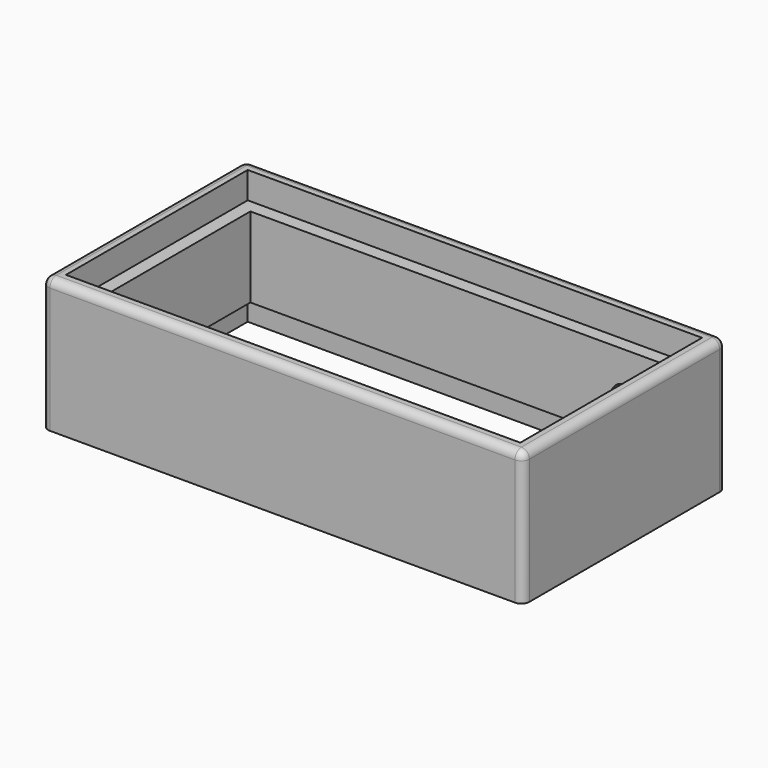
from build123d import *

# Parameters (mm, degrees)
F0_W      = 180
F0_H      = 95
F1_DEPTH  = 50
F2_W      = 160
F2_H      = 75
F3_DEPTH  = 50.001
F4_W      = 170
F4_H      = 85
F5_DEPTH  = 10
F6_W      = 170
F6_H      = 85
F7_DEPTH  = 10
F8_R      = 3
F9_R      = 5
F10_DEPTH = 10


with BuildPart() as f1:
    # F0 (on Top) → F1 (new body)
    with BuildSketch(Plane.XY):
        with Locations((-2.011862, -11.363395)):
            Rectangle(F0_W, F0_H)
    extrude(amount=F1_DEPTH)

    # F2 (on face) → F3 (cut, through all)
    with BuildSketch(Plane.XY.offset(50)):
        with Locations((-2.011862, -11.363395)):
            Rectangle(F2_W, F2_H)
    extrude(amount=-F3_DEPTH, mode=Mode.SUBTRACT)

    # F4 (on face) → F5 (cut)
    with BuildSketch(Plane.XY.offset(50)):
        with Locations((-2.011862, -11.363395)):
            Rectangle(F4_W, F4_H)
    extrude(amount=-F5_DEPTH, mode=Mode.SUBTRACT)

    # F6 (on face) → F7 (cut)
    with BuildSketch(Plane(origin=(0, 0, 0), x_dir=(1, 0, 0), z_dir=(0, 0, -1))):
        with Locations((-2.011862, 11.363395)):
            Rectangle(F6_W, F6_H)
    extrude(amount=-F7_DEPTH, mode=Mode.SUBTRACT)

    # F8
    f8_edges = [f1.edges().sort_by_distance(p)[0] for p in [
        (-92.011862, -58.863395, 25),
        (87.988138, -58.863395, 25),
        (87.988138, -11.363395, 50),
        (-2.011862, -58.863395, 50),
        (-92.011862, -11.363395, 50),
        (-2.011862, 36.136605, 50),
        (-92.011862, 36.136605, 25),
        (87.988138, 36.136605, 25),
    ]]
    fillet(f8_edges, radius=F8_R)

    # F9 (on face) → F10 (cut, through all)
    with BuildSketch(Plane(origin=(0, 36.136605, 0), x_dir=(-1, 0, 0), z_dir=(0, 1, 0))):
        with Locations((-57.988138, 23.5)):
            Circle(F9_R)
    extrude(amount=-F10_DEPTH, mode=Mode.SUBTRACT)


solid = f1.part
